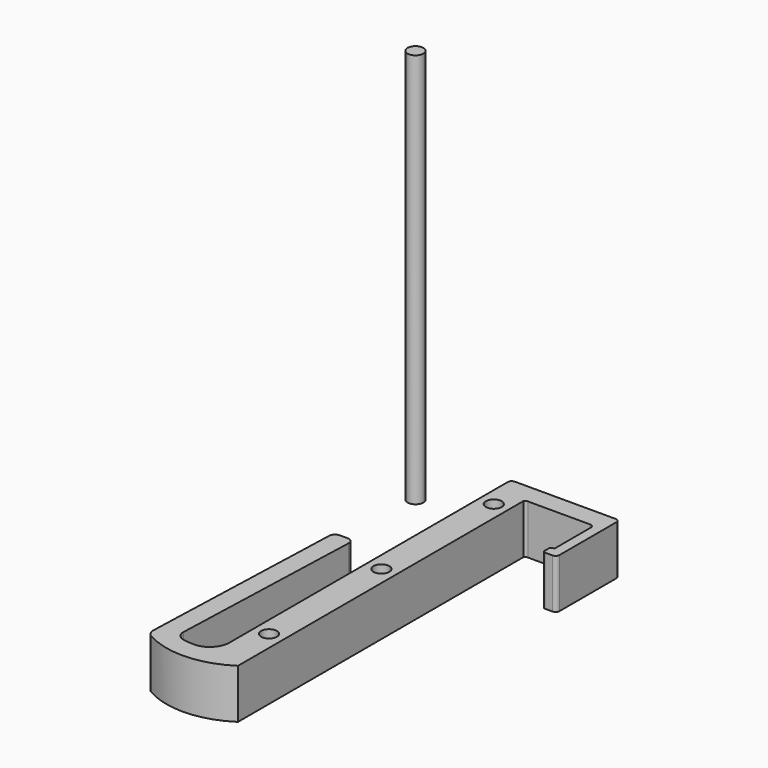
from build123d import *

# Parameters (mm, degrees)
F0_R     = 4
F1_DEPTH = 25
F2_R     = 2
F3_R     = 5
F4_R     = 4
F5_DEPTH = 200


with BuildPart() as f1:
    # F0 (on Top) → F1 (new body)
    with BuildSketch(Plane.XY):
        with BuildLine():
            ThreePointArc((6.16334, 26.969844), (6.854238, 27.508997), (7.709316, 27.701003))
            Line((7.709316, 27.701003), (39.16334, 27.701003))
            ThreePointArc((39.16334, 27.701003), (40.577554, 27.115217), (41.16334, 25.701003))
            Line((41.16334, 25.701003), (41.16334, 2.701003))
            Line((41.16334, 2.701003), (40.319335, 2.701003))
            ThreePointArc((40.319335, 2.701003), (39.612228, 2.40811), (39.319335, 1.701003))
            Line((39.319335, 1.701003), (39.319335, -1.298997))
            ThreePointArc((39.319335, -1.298997), (39.612228, -2.006104), (40.319335, -2.298997))
            Line((40.319335, -2.298997), (41.16334, -2.298997))
            Line((41.16334, -2.298997), (46.16334, -2.298997))
            Line((46.16334, -2.298997), (46.16334, 37.701003))
            Line((46.16334, 37.701003), (-8.83666, 37.701003))
            Line((-8.83666, 37.701003), (-8.83666, -140.291969))
            ThreePointArc((-8.83666, -140.291969), (-11.765592, -147.363037), (-18.83666, -150.291969))
            ThreePointArc((-18.83666, -150.291969), (-21.798647, -150.138949), (-24.729096, -149.681516))
            ThreePointArc((-24.729096, -149.681516), (-27.63957, -147.871874), (-28.701057, -144.613207))
            Line((-28.701057, -144.613207), (-25.204357, -44.480815))
            ThreePointArc((-25.204357, -44.480815), (-26.04451, -42.292142), (-28.202529, -41.376117))
            Line((-28.202529, -41.376117), (-32.198872, -41.376117))
            ThreePointArc((-32.198872, -41.376117), (-34.282847, -42.218098), (-35.197044, -44.271418))
            Line((-35.197044, -44.271418), (-39.018888, -153.714714))
            ThreePointArc((-39.018888, -153.714714), (-16.427774, -160.51035), (6.16334, -153.714714))
            Line((6.16334, -153.714714), (6.16334, 26.969844))
        make_face()
        with Locations((-1.33666, -124.707893)):
            Circle(F0_R, mode=Mode.SUBTRACT)
        with Locations((-1.33666, -53.607893)):
            Circle(F0_R, mode=Mode.SUBTRACT)
        with Locations((-1.33666, 17.492107)):
            Circle(F0_R, mode=Mode.SUBTRACT)
    extrude(amount=F1_DEPTH)

    # F2
    f2_edges = [f1.edges().sort_by_distance(p)[0] for p in [
        (-8.83666, 37.701003, 12.5),
        (46.16334, 37.701003, 12.5),
        (46.16334, -2.298997, 12.5),
    ]]
    fillet(f2_edges, radius=F2_R)

    # F3
    f3_edges = [f1.edges().sort_by_distance(p)[0] for p in [
        (-39.018888, -153.714714, 12.5),
    ]]
    fillet(f3_edges, radius=F3_R)


with BuildPart() as f5:
    # F4 (on Top) → F5 (new body)
    with BuildSketch(Plane.XY):
        with Locations((-57.868689, 38.619373)):
            Circle(F4_R)
    extrude(amount=F5_DEPTH)


solid = Compound([f1.part, f5.part])
